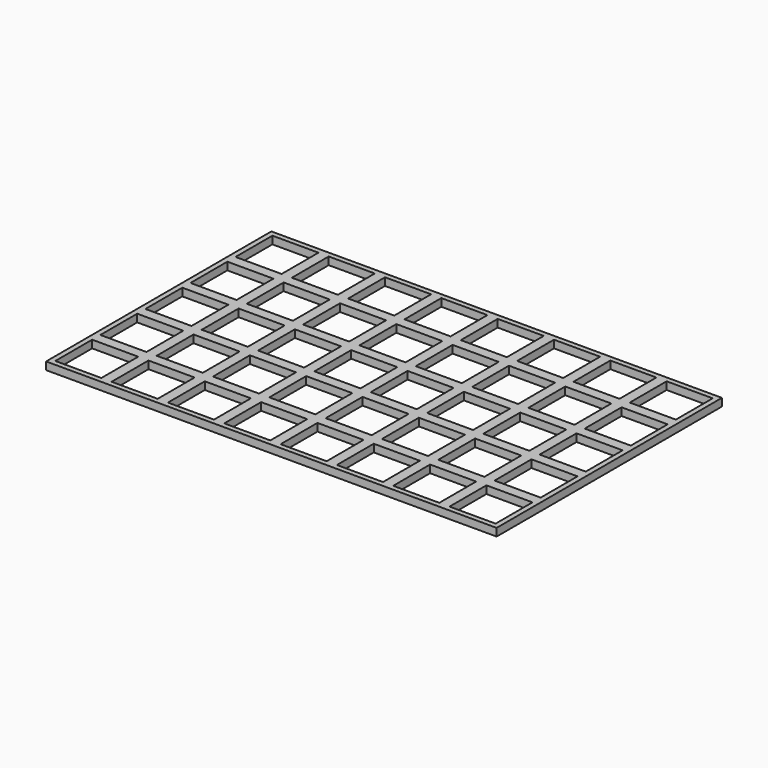
from build123d import *

# Parameters (mm, degrees)
F0_W     = 11
F0_H     = 11
F0_W_2   = 9
F0_H_2   = 9
F1_DEPTH = 1.5


with BuildPart() as f1:
    # F0 (on Top) → F1 (new body)
    with BuildSketch(Plane.XY):
        with Locations((-29.751156, 3.492917)):
            Rectangle(F0_W, F0_H)
        with Locations((-29.751156, 3.492917)):
            Rectangle(F0_W_2, F0_H_2, mode=Mode.SUBTRACT)
        with Locations((-40.751156, 3.492917)):
            Rectangle(F0_W, F0_H)
        with Locations((-40.751156, 3.492917)):
            Rectangle(F0_W_2, F0_H_2, mode=Mode.SUBTRACT)
        with Locations((-51.751156, 3.492917)):
            Rectangle(F0_W, F0_H)
        with Locations((-51.751156, 3.492917)):
            Rectangle(F0_W_2, F0_H_2, mode=Mode.SUBTRACT)
        with Locations((-62.751156, 3.492917)):
            Rectangle(F0_W, F0_H)
        with Locations((-62.751156, 3.492917)):
            Rectangle(F0_W_2, F0_H_2, mode=Mode.SUBTRACT)
        with Locations((-51.751156, -7.507083)):
            Rectangle(F0_W, F0_H)
        with Locations((-51.751156, -7.507083)):
            Rectangle(F0_W_2, F0_H_2, mode=Mode.SUBTRACT)
        with Locations((-62.751156, -7.507083)):
            Rectangle(F0_W, F0_H)
        with Locations((-62.751156, -7.507083)):
            Rectangle(F0_W_2, F0_H_2, mode=Mode.SUBTRACT)
        with Locations((-62.751156, -18.507083)):
            Rectangle(F0_W, F0_H)
        with Locations((-62.751156, -18.507083)):
            Rectangle(F0_W_2, F0_H_2, mode=Mode.SUBTRACT)
        with Locations((-51.751156, -18.507083)):
            Rectangle(F0_W, F0_H)
        with Locations((-51.751156, -18.507083)):
            Rectangle(F0_W_2, F0_H_2, mode=Mode.SUBTRACT)
        with Locations((-40.751156, -7.507083)):
            Rectangle(F0_W, F0_H)
        with Locations((-40.751156, -7.507083)):
            Rectangle(F0_W_2, F0_H_2, mode=Mode.SUBTRACT)
        with Locations((-40.751156, -18.507083)):
            Rectangle(F0_W, F0_H)
        with Locations((-40.751156, -18.507083)):
            Rectangle(F0_W_2, F0_H_2, mode=Mode.SUBTRACT)
        with Locations((-29.751156, -18.507083)):
            Rectangle(F0_W, F0_H)
        with Locations((-29.751156, -18.507083)):
            Rectangle(F0_W_2, F0_H_2, mode=Mode.SUBTRACT)
        with Locations((-29.751156, -7.507083)):
            Rectangle(F0_W, F0_H)
        with Locations((-29.751156, -7.507083)):
            Rectangle(F0_W_2, F0_H_2, mode=Mode.SUBTRACT)
        with Locations((-18.751156, -7.507083)):
            Rectangle(F0_W, F0_H)
        with Locations((-18.751156, -7.507083)):
            Rectangle(F0_W_2, F0_H_2, mode=Mode.SUBTRACT)
        with Locations((-18.751156, 3.492917)):
            Rectangle(F0_W, F0_H)
        with Locations((-18.751156, 3.492917)):
            Rectangle(F0_W_2, F0_H_2, mode=Mode.SUBTRACT)
        with Locations((-18.751156, -18.507083)):
            Rectangle(F0_W, F0_H)
        with Locations((-18.751156, -18.507083)):
            Rectangle(F0_W_2, F0_H_2, mode=Mode.SUBTRACT)
        with Locations((-7.751156, -18.507083)):
            Rectangle(F0_W, F0_H)
        with Locations((-7.751156, -18.507083)):
            Rectangle(F0_W_2, F0_H_2, mode=Mode.SUBTRACT)
        with Locations((-7.751156, -7.507083)):
            Rectangle(F0_W, F0_H)
        with Locations((-7.751156, -7.507083)):
            Rectangle(F0_W_2, F0_H_2, mode=Mode.SUBTRACT)
        with Locations((3.248844, -7.507083)):
            Rectangle(F0_W, F0_H)
        with Locations((3.248844, -7.507083)):
            Rectangle(F0_W_2, F0_H_2, mode=Mode.SUBTRACT)
        with Locations((3.248844, -18.507083)):
            Rectangle(F0_W, F0_H)
        with Locations((3.248844, -18.507083)):
            Rectangle(F0_W_2, F0_H_2, mode=Mode.SUBTRACT)
        with Locations((14.248844, -18.507083)):
            Rectangle(F0_W, F0_H)
        with Locations((14.248844, -18.507083)):
            Rectangle(F0_W_2, F0_H_2, mode=Mode.SUBTRACT)
        with Locations((14.248844, -7.507083)):
            Rectangle(F0_W, F0_H)
        with Locations((14.248844, -7.507083)):
            Rectangle(F0_W_2, F0_H_2, mode=Mode.SUBTRACT)
        with Locations((14.248844, 3.492917)):
            Rectangle(F0_W, F0_H)
        with Locations((14.248844, 3.492917)):
            Rectangle(F0_W_2, F0_H_2, mode=Mode.SUBTRACT)
        with Locations((3.248844, 3.492917)):
            Rectangle(F0_W, F0_H)
        with Locations((3.248844, 3.492917)):
            Rectangle(F0_W_2, F0_H_2, mode=Mode.SUBTRACT)
        with Locations((-7.751156, 3.492917)):
            Rectangle(F0_W, F0_H)
        with Locations((-7.751156, 3.492917)):
            Rectangle(F0_W_2, F0_H_2, mode=Mode.SUBTRACT)
        with Locations((14.248844, 14.492917)):
            Rectangle(F0_W, F0_H)
        with Locations((14.248844, 14.492917)):
            Rectangle(F0_W_2, F0_H_2, mode=Mode.SUBTRACT)
        with Locations((3.248844, 14.492917)):
            Rectangle(F0_W, F0_H)
        with Locations((3.248844, 14.492917)):
            Rectangle(F0_W_2, F0_H_2, mode=Mode.SUBTRACT)
        with Locations((-7.751156, 14.492917)):
            Rectangle(F0_W, F0_H)
        with Locations((-7.751156, 14.492917)):
            Rectangle(F0_W_2, F0_H_2, mode=Mode.SUBTRACT)
        with Locations((14.248844, 25.492917)):
            Rectangle(F0_W, F0_H)
        with Locations((14.248844, 25.492917)):
            Rectangle(F0_W_2, F0_H_2, mode=Mode.SUBTRACT)
        with Locations((3.248844, 25.492917)):
            Rectangle(F0_W, F0_H)
        with Locations((3.248844, 25.492917)):
            Rectangle(F0_W_2, F0_H_2, mode=Mode.SUBTRACT)
        with Locations((-18.751156, 14.492917)):
            Rectangle(F0_W, F0_H)
        with Locations((-18.751156, 14.492917)):
            Rectangle(F0_W_2, F0_H_2, mode=Mode.SUBTRACT)
        with Locations((-7.751156, 25.492917)):
            Rectangle(F0_W, F0_H)
        with Locations((-7.751156, 25.492917)):
            Rectangle(F0_W_2, F0_H_2, mode=Mode.SUBTRACT)
        with Locations((-18.751156, 25.492917)):
            Rectangle(F0_W, F0_H)
        with Locations((-18.751156, 25.492917)):
            Rectangle(F0_W_2, F0_H_2, mode=Mode.SUBTRACT)
        with Locations((-29.751156, 14.492917)):
            Rectangle(F0_W, F0_H)
        with Locations((-29.751156, 14.492917)):
            Rectangle(F0_W_2, F0_H_2, mode=Mode.SUBTRACT)
        with Locations((-29.751156, 25.492917)):
            Rectangle(F0_W, F0_H)
        with Locations((-29.751156, 25.492917)):
            Rectangle(F0_W_2, F0_H_2, mode=Mode.SUBTRACT)
        with Locations((-40.751156, 14.492917)):
            Rectangle(F0_W, F0_H)
        with Locations((-40.751156, 14.492917)):
            Rectangle(F0_W_2, F0_H_2, mode=Mode.SUBTRACT)
        with Locations((-40.751156, 25.492917)):
            Rectangle(F0_W, F0_H)
        with Locations((-40.751156, 25.492917)):
            Rectangle(F0_W_2, F0_H_2, mode=Mode.SUBTRACT)
        with Locations((-51.751156, 14.492917)):
            Rectangle(F0_W, F0_H)
        with Locations((-51.751156, 14.492917)):
            Rectangle(F0_W_2, F0_H_2, mode=Mode.SUBTRACT)
        with Locations((-51.751156, 25.492917)):
            Rectangle(F0_W, F0_H)
        with Locations((-51.751156, 25.492917)):
            Rectangle(F0_W_2, F0_H_2, mode=Mode.SUBTRACT)
        with Locations((-62.751156, 14.492917)):
            Rectangle(F0_W, F0_H)
        with Locations((-62.751156, 14.492917)):
            Rectangle(F0_W_2, F0_H_2, mode=Mode.SUBTRACT)
        with Locations((-62.751156, 25.492917)):
            Rectangle(F0_W, F0_H)
        with Locations((-62.751156, 25.492917)):
            Rectangle(F0_W_2, F0_H_2, mode=Mode.SUBTRACT)
    extrude(amount=F1_DEPTH)


solid = f1.part
